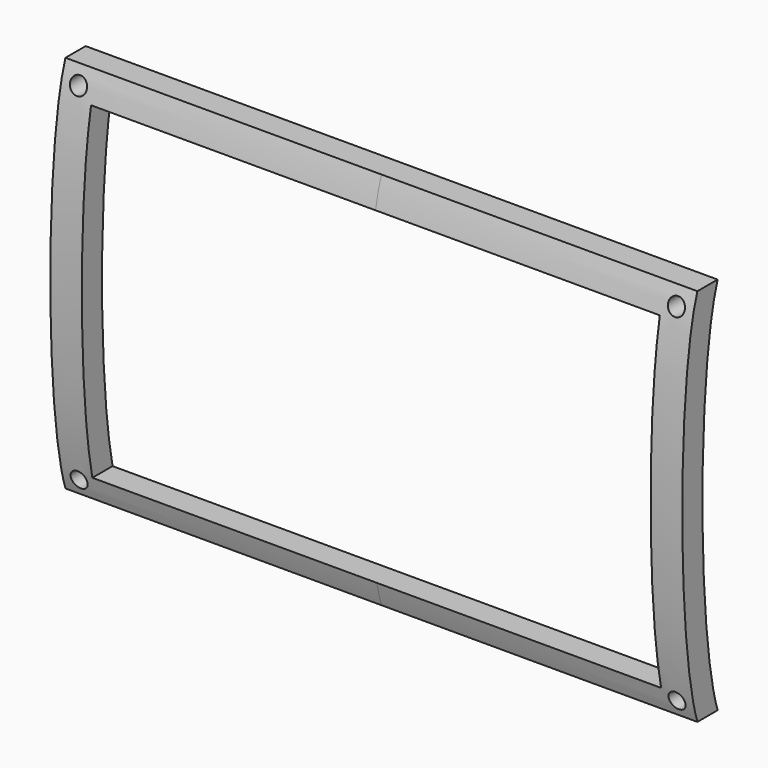
from build123d import *

# Parameters (mm, degrees)
F1_DEPTH = 75
F2_DEPTH = 75
F4_W     = 135
F4_H     = 78
F5_DEPTH = 12
F6_R     = 2
F7_DEPTH = 25


with BuildPart() as f1:
    # F0 (on Right) → F1 (new body)
    with BuildSketch(Plane.YZ):
        with BuildLine():
            Line((6, 90), (0, 90))
            add(Edge.make_bspline(
                [(0, 90), (-5.988211, 73.405368), (-6, 18), (0, 0)],
                knots=[0, 0, 0, 0, 90, 90, 90, 90], degree=3))
            Line((0, 0), (6, 0))
            add(Edge.make_bspline(
                [(6, 90), (0, 73.029437), (0, 18), (6, 0)],
                knots=[0, 0, 0, 0, 90, 90, 90, 90], degree=3))
        make_face()
    extrude(amount=F1_DEPTH)

    # F1_face (on face) → F2 (join)
    with BuildSketch(Plane(origin=(0, -0.249906, 45.026938), x_dir=(0, 1, 0), z_dir=(-1, 0, 0))):
        with BuildLine():
            Line((0.249906, -44.973062), (6.249906, -44.973062))
            add(Edge.make_bspline(
                [(6.249906, -44.973062), (0.249906, -28.002499), (0.249906, 27.026938), (6.249906, 45.026938)],
                knots=[0, 0, 0, 0, 90, 90, 90, 90], degree=3))
            Line((6.249906, 45.026938), (0.249906, 45.026938))
            add(Edge.make_bspline(
                [(0.249906, -44.973062), (-5.738305, -28.37843), (-5.750094, 27.026938), (0.249906, 45.026938)],
                knots=[0, 0, 0, 0, 90, 90, 90, 90], degree=3))
        make_face()
    extrude(amount=F2_DEPTH)

    # F4 (on offset) → F5 (cut)
    with BuildSketch(Plane.XZ.offset(6)):
        with Locations((-0.013318, 44.228188)):
            Rectangle(F4_W, F4_H)
    extrude(amount=-F5_DEPTH, mode=Mode.SUBTRACT)

    # F6 (on offset) → F7 (cut)
    with BuildSketch(Plane.XZ.offset(6)):
        with Locations((-70.961185, 85.947864)):
            Circle(F6_R)
        with Locations((70.961185, 85.947864)):
            Circle(F6_R)
        with Locations((70.961185, 3.526589)):
            Circle(F6_R)
        with Locations((-70.961185, 3.526589)):
            Circle(F6_R)
    extrude(amount=-F7_DEPTH, mode=Mode.SUBTRACT)


solid = f1.part
